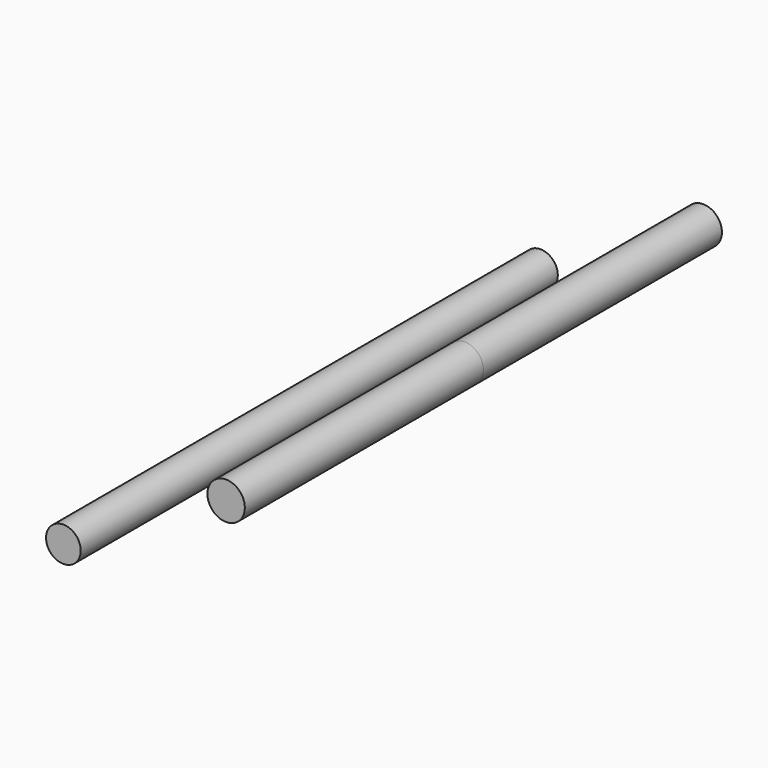
from build123d import *

# Parameters (mm, degrees)
F0_R     = 3.429
F0_R_2   = 3.175
F1_DEPTH = 54.61


with BuildPart() as f1:
    # F0 (on Front) → F1 (new body, symmetric)
    with BuildSketch(Plane.XZ):
        with Locations((-19.36185, 44.703096)):
            Circle(F0_R)
        with Locations((-49.163915, 27.998755)):
            Circle(F0_R_2)
    extrude(amount=F1_DEPTH, both=True)


solid = f1.part
